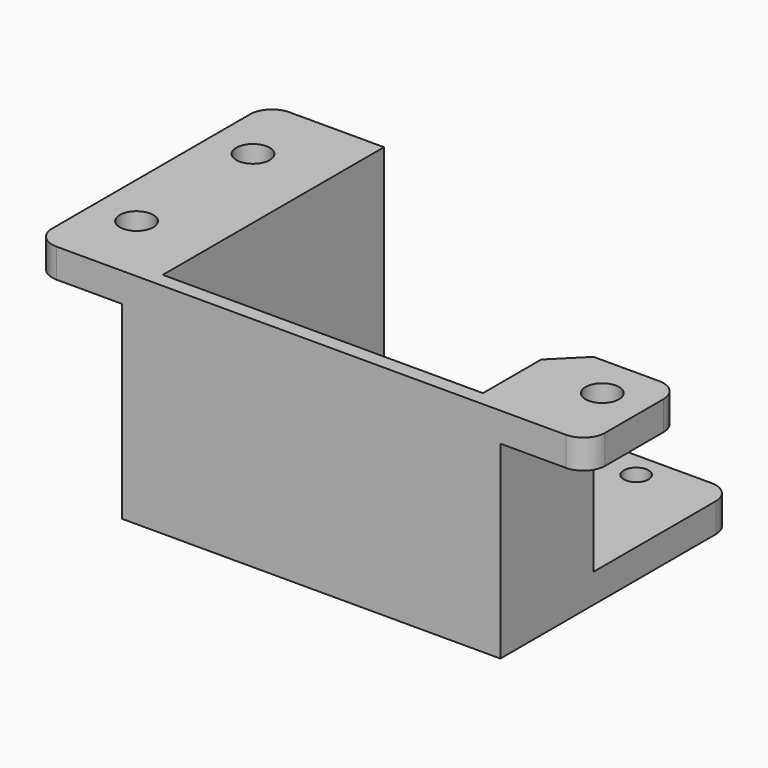
from build123d import *

# Parameters (mm, degrees)
SKETCH_W        = 76
SKETCH_H        = 40
PAD_DEPTH       = 30
SKETCH001_W     = 44
SKETCH001_H     = 43.078728
POCKET_DEPTH    = 26
SKETCH002_R     = 2.3
POCKET001_DEPTH = 30.001
SKETCH003_W     = 14
SKETCH003_H     = 44.554736
SKETCH003_H_2   = 44
POCKET002_DEPTH = 26
POCKET003_DEPTH = 26
SKETCH005_R     = 11.5
SKETCH005_R_2   = 1.7
POCKET004_DEPTH = 5
FILLET_R        = 3


with BuildPart() as part:
    # Sketch → Pad (new body)
    with BuildSketch(Plane.XY):
        with Locations((0, 20)):
            Rectangle(SKETCH_W, SKETCH_H)
    extrude(amount=PAD_DEPTH)

    # Sketch001 → Pocket (cut)
    with BuildSketch(Plane.XY.offset(30)):
        with Locations((0, 23.539364)):
            Rectangle(SKETCH001_W, SKETCH001_H)
    extrude(amount=-POCKET_DEPTH, mode=Mode.SUBTRACT)

    # Sketch002 → Pocket001 (cut, through all)
    with BuildSketch(Plane.XY.offset(30)):
        with Locations((-32, 10)):
            Circle(SKETCH002_R)
        with Locations((-32, 30)):
            Circle(SKETCH002_R)
        with Locations((32, 10)):
            Circle(SKETCH002_R)
    extrude(amount=-POCKET001_DEPTH, mode=Mode.SUBTRACT)

    # Sketch003 → Pocket002 (cut)
    with BuildSketch(Plane(origin=(0, 0, 0), x_dir=(1, 0, 0), z_dir=(0, 0, -1))):
        with Locations((-33, -19.722632)):
            Rectangle(SKETCH003_W, SKETCH003_H)
        with Locations((33, -20)):
            Rectangle(SKETCH003_W, SKETCH003_H_2)
    extrude(amount=-POCKET002_DEPTH, mode=Mode.SUBTRACT)

    # Sketch004 → Pocket003 (cut)
    with BuildSketch(Plane.XY.offset(30)):
        Polygon((20, 42), (40, 42), (40, 16), (26, 16), (20, 10), align=None)
    extrude(amount=-POCKET003_DEPTH, mode=Mode.SUBTRACT)

    # Sketch005 → Pocket004 (cut)
    with BuildSketch(Plane(origin=(0, 0, 0), x_dir=(1, 0, 0), z_dir=(0, 0, -1))):
        with Locations((0, -22)):
            Circle(SKETCH005_R)
        with Locations((-15.5, -5.437484)):
            Circle(SKETCH005_R_2)
        with Locations((15.5, -5.437484)):
            Circle(SKETCH005_R_2)
        with Locations((15.5, -36.437484)):
            Circle(SKETCH005_R_2)
        with Locations((-15.5, -36.437484)):
            Circle(SKETCH005_R_2)
    extrude(amount=-POCKET004_DEPTH, mode=Mode.SUBTRACT)

    # Fillet
    fillet_edges = [part.edges().sort_by_distance(p)[0] for p in [
        (26, 40, 2),
        (38, 16, 28),
        (38, 0, 28),
        (-38, 40, 28),
        (-38, 0, 28),
    ]]
    fillet(fillet_edges, radius=FILLET_R)


solid = part.part
